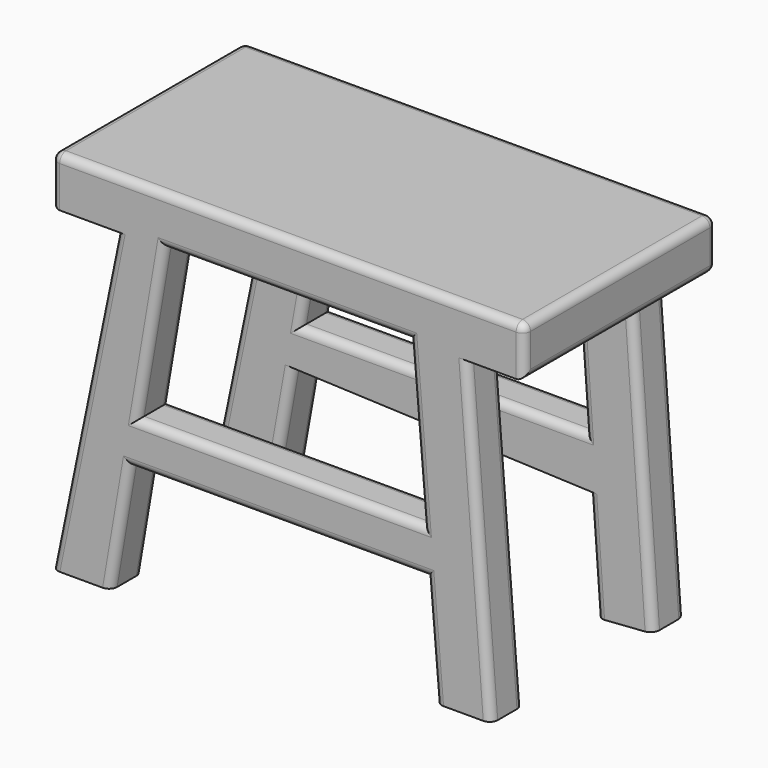
from build123d import *

# Parameters (mm, degrees)
F0_W          = 117.9976798594
F0_H          = 12.2914258391
F1_DEPTH      = 60
F4_DEPTH      = 10
F6_DEPTH      = 10
F7_W          = 39.3325621262
F7_H          = 90.9565519542
F8_DEPTH      = 57.5873161514
F8_DEPTH_BACK = 100
F9_R          = 2


with BuildPart() as f1:
    # F0 (on Front) → F1 (new body)
    with BuildSketch(Plane.XZ):
        with Locations((1.843707636, 29.4994218275)):
            Rectangle(F0_W, F0_H)
    extrude(amount=F1_DEPTH)

    # F3 (on offset) → F4 (join)
    with BuildSketch(Plane.XZ.offset(50)):
        Polygon((-28.8848504424, 23.353708908), (-40.7665632665, 23.7634219229), (-57.1551285684, -56.1308450997), (-42.4054190516, -56.1308450997), (-37.5268632135, -27.4508504777), (-35.645134747, -16.3885680959), align=None)
        Polygon((35.509279896, -16.3885680959), (-35.645134747, -16.3885680959), (-37.5268632135, -27.4508504777), (36.4408404675, -27.4508504777), align=None)
        Polygon((32.1625620127, 23.353708908), (35.509279896, -16.3885680959), (36.4408404675, -27.4508504777), (38.7179888785, -54.4919893146), (52.6482760906, -54.4919893146), (46.5025603771, 23.7634219229), align=None)
    extrude(amount=F4_DEPTH)

    # F5 (on Front) → F6 (join)
    with BuildSketch(Plane.XZ):
        Polygon((53.0579872429, -54.9017004669), (47.321986407, 24.1731368005), (33.1846513491, 23.4278501328), (36.0627619886, -16.2489450714), (36.7494194461, -25.7150048338), (36.9629519862, -28.6587022527), (38.9408726281, -55.9257402756), align=None)
        Polygon((36.7494194461, -25.7150048338), (36.0627619886, -16.2489450714), (-35.1216238776, -16.2489450714), (-36.8050870485, -25.7150048338), (36.9629519862, -28.6587022527), align=None)
        Polygon((-36.8050870485, -25.7150048338), (-35.1216238776, -16.2489450714), (-28.0654225498, 23.4278501328), (-41.1762744188, 23.4278501328), (-57.5863161514, -55.7236002397), (-41.9957078993, -54.9017004669), align=None)
    extrude(amount=F6_DEPTH)

    # F7 (on Right) → F8 (cut, two sides)
    with BuildSketch(Plane.YZ) as f8_sk:
        with Locations((-30.1139908843, -22.1245670691)):
            Rectangle(F7_W, F7_H)
    extrude(amount=-F8_DEPTH, mode=Mode.SUBTRACT)
    extrude(f8_sk.sketch, amount=F8_DEPTH_BACK, mode=Mode.SUBTRACT)

    # F9
    f9_edges = [f1.edges().sort_by_distance(p)[0] for p in [
        (1.843708, -60, 35.645135),
        (1.638856, -60, 23.353709),
        (-32.264993, -60, 3.48257),
        (33.835921, -60, 3.48257),
        (-0.067927, -60, -16.388568),
        (-0.543011, -60, -27.45085),
        (37.579415, -60, -40.97142),
        (49.591506, -60, -15.56914),
        (49.591506, -50, -15.56914),
        (60.842548, -30, 23.353709),
        (60.842548, -30, 35.645135),
        (1.843708, 0, 35.645135),
        (2.555711, 0, 23.353709),
        (54.111987, 0, 23.353709),
        (-57.155132, -30, 35.645135),
        (-57.155132, -30, 23.353709),
        (-57.155132, -60, 29.499422),
        (-57.155132, 0, 29.499422),
        (60.842548, 0, 29.499422),
        (60.842548, -60, 29.499422),
        (50.219707, 0, -15.773996),
        (-49.388981, 0, -16.184946),
        (-49.002868, -50, -16.388568),
        (-39.400397, 0, -40.308353),
        (-49.791012, 0, -55.31265),
        (0.078932, 0, -27.186854),
        (37.951912, 0, -42.292221),
        (45.99943, 0, -55.41372),
        (34.626396, 0, 3.552382),
        (0.470569, 0, -16.248945),
        (-31.600116, 0, 3.552382),
        (-31.600116, -10, 3.552382),
        (-39.400397, -10, -40.308353),
        (-39.966141, -60, -41.790848),
        (34.626396, -10, 3.552382),
        (50.219707, -10, -15.773996),
        (-49.002868, -60, -16.388568),
        (0.470569, -10, -16.248945),
        (-0.067927, -50, -16.388568),
        (-32.264993, -50, 3.48257),
        (-49.388981, -10, -16.184946),
        (-39.966141, -50, -41.790848),
        (37.951912, -10, -42.292221),
    ]]
    fillet(f9_edges, radius=F9_R)


solid = f1.part
